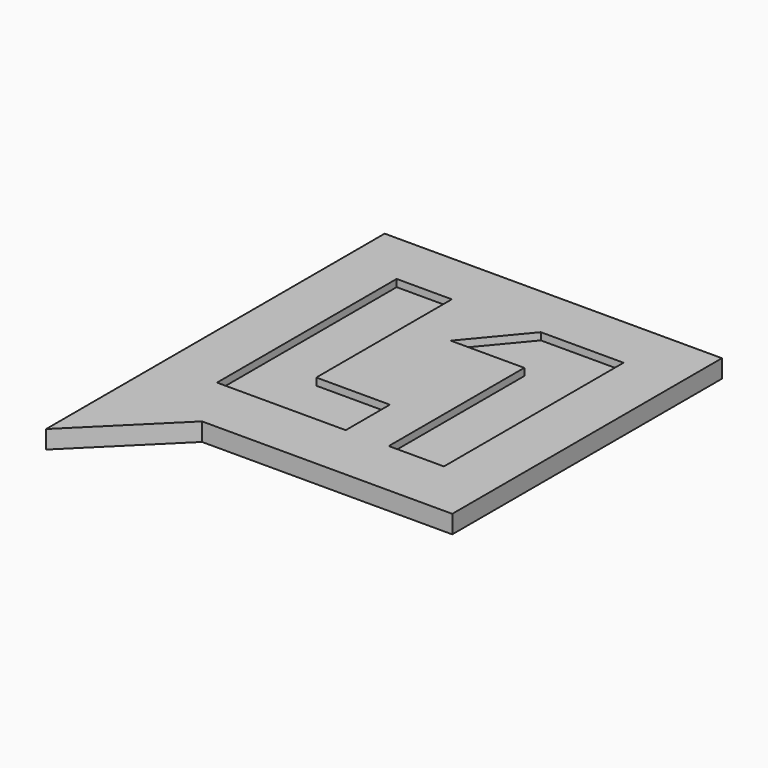
from build123d import *

# Parameters (mm, degrees)
F1_DEPTH = 5
F3_DEPTH = 2


with BuildPart() as f1:
    # F0 (on Top) → F1 (new body)
    with BuildSketch(Plane.XY):
        Polygon((37.573822, 49.251007), (-55.58905, 49.251007), (-55.58905, -67.659264), (-31.55629, -43.860067), (37.573822, -43.860067), align=None)
    extrude(amount=F1_DEPTH)

    # F2 (on face) → F3 (cut)
    with BuildSketch(Plane.XY.offset(5)):
        Polygon((-25.10905, 34.337802), (-40.34905, 34.337802), (-40.34905, -27.690759), (-4.78905, -27.690759), (-4.78905, -12.450759), (-25.10905, -12.450759), align=None)
        Polygon((22.333822, 34.337802), (-0.526178, 34.337802), (-13.226178, 19.097802), (7.093822, 19.097802), (7.093822, -27.690759), (22.333822, -27.690759), align=None)
    extrude(amount=-F3_DEPTH, mode=Mode.SUBTRACT)


solid = f1.part
